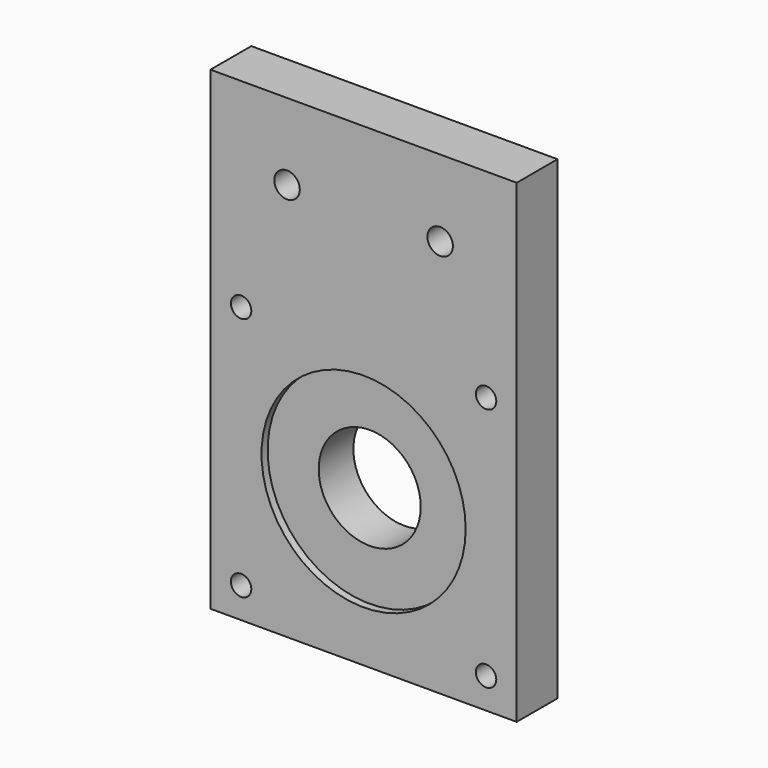
from build123d import *

# Parameters (mm, degrees)
F0_W     = 60
F0_H     = 93
F0_R     = 2
F0_R_2   = 20
F0_R_3   = 2.5
F1_DEPTH = 10
F0_R_4   = 10
F2_DEPTH = 8.5


with BuildPart() as f1:
    # F0 (on Front) → F1 (new body)
    with BuildSketch(Plane.XZ):
        with Locations((-24, 46.5)):
            Rectangle(F0_W, F0_H)
        with Locations((-48, 6)):
            Circle(F0_R, mode=Mode.SUBTRACT)
        with Locations((0, 6)):
            Circle(F0_R, mode=Mode.SUBTRACT)
        with Locations((-24, 30)):
            Circle(F0_R_2, mode=Mode.SUBTRACT)
        with Locations((-48, 54)):
            Circle(F0_R, mode=Mode.SUBTRACT)
        with Locations((-39, 78)):
            Circle(F0_R_3, mode=Mode.SUBTRACT)
        with Locations((0, 54)):
            Circle(F0_R, mode=Mode.SUBTRACT)
        with Locations((-9, 78)):
            Circle(F0_R_3, mode=Mode.SUBTRACT)
    extrude(amount=F1_DEPTH)


with BuildPart() as f2:
    # F0 (on Front) → F2 (new body)
    with BuildSketch(Plane.XZ):
        with Locations((-24, 30)):
            Circle(F0_R_2)
        with Locations((-24, 30)):
            Circle(F0_R_4, mode=Mode.SUBTRACT)
    extrude(amount=F2_DEPTH)


solid = Compound([f1.part, f2.part])
